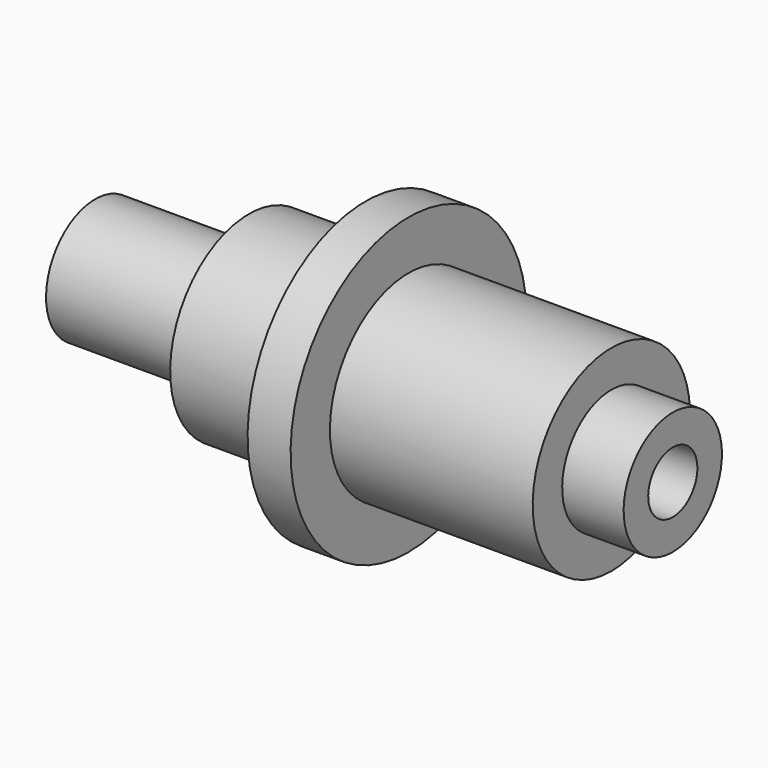
from build123d import *


with BuildPart() as f1:
    # F0 (on Front) → F1 (revolve)
    with BuildSketch(Plane.XZ):
        Polygon((-10.159994, 1.27), (-10.159994, 0), (-3.809994, 0), (-3.809994, -1.524), (1.016006, -1.524), (1.016006, -3.556), (2.794006, -3.556), (2.794006, -1.524), (11.176006, -1.524), (11.176006, 0), (13.716006, 0), (13.716006, 1.27), (11.176006, 1.27), (2.794006, 1.27), (2.794006, 2.54), (1.016006, 2.54), (1.016006, 1.27), (1.016006, 1.016), (-8.699247, 1.016), (-8.699247, 1.27), align=None)
    revolve(axis=Axis((1.905006, 0, 2.54), (1, 0, 0)))


solid = f1.part
